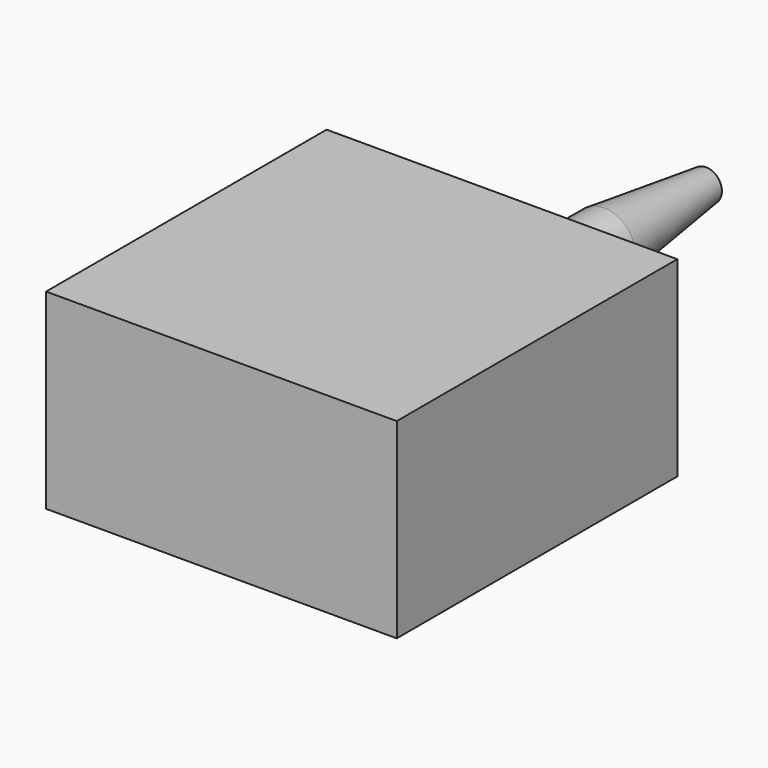
from build123d import *

# Parameters (mm, degrees)
F2_W     = 69.85
F2_H     = 38.1
F3_DEPTH = 69.85
F4_R     = 3
F4_R_2   = 31.5
F5_DEPTH = 12.7
F6_DEPTH = 25.4


with BuildPart() as f1:
    # F0 (on Right) → F1 (revolve)
    with BuildSketch(Plane.YZ):
        Polygon((0, 6.35), (0, 0), (50.8, 0), (50.8, 3.175), (25.4, 6.35), align=None)
    revolve(axis=Axis((0, 25.4, 0), (0, 1, 0)))

    # F2 (on Front) → F3 (join)
    with BuildSketch(Plane.XZ):
        Rectangle(F2_W, F2_H)
    extrude(amount=F3_DEPTH)

    # F4 (on face) → F5 (cut)
    with BuildSketch(Plane(origin=(0, 0, -19.05), x_dir=(1, 0, 0), z_dir=(0, 0, -1))):
        with Locations((0, 59.925)):
            Circle(F4_R)
        with Locations((0, 34.925)):
            Circle(F4_R_2)
        with Locations((0, 59.925)):
            Circle(F4_R, mode=Mode.SUBTRACT)
    extrude(amount=-F5_DEPTH, mode=Mode.SUBTRACT)

    # F4 (on face) → F6 (cut)
    with BuildSketch(Plane(origin=(0, 0, -19.05), x_dir=(1, 0, 0), z_dir=(0, 0, -1))):
        with Locations((0, 59.925)):
            Circle(F4_R)
    extrude(amount=-F6_DEPTH, mode=Mode.SUBTRACT)


solid = f1.part
